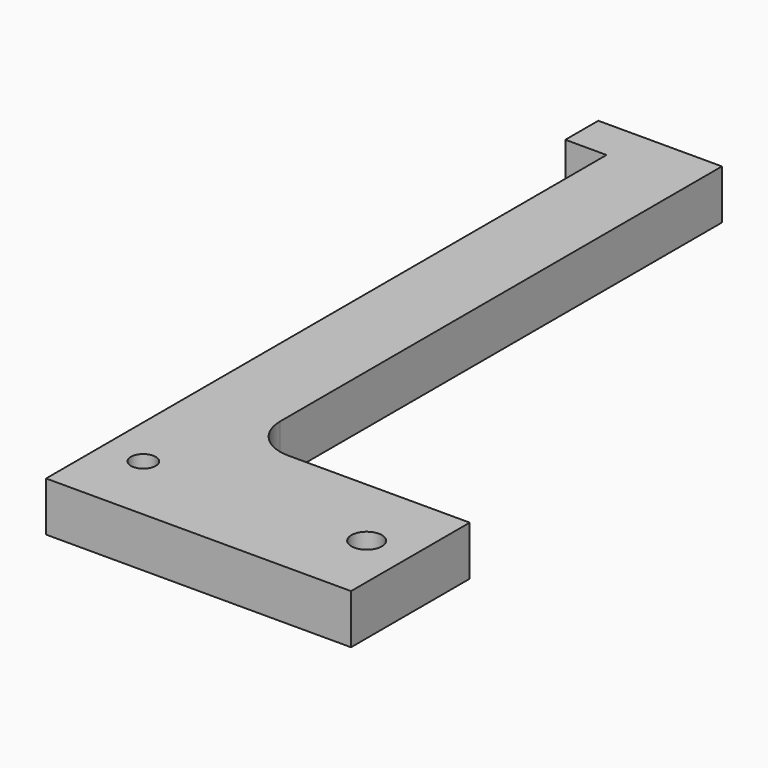
from build123d import *

# Parameters (mm, degrees)
F1_DEPTH = 6
F2_R     = 1.5
F2_R_2   = 1.85
F3_DEPTH = 25


with BuildPart() as f1:
    # F0 (on Top) → F1 (new body)
    with BuildSketch(Plane.XY):
        with BuildLine():
            Line((-18.5, -9), (18.5, -9))
            Line((18.5, -9), (18.5, 9))
            Line((18.5, 9), (1.5, 9))
            Line((1.5, 9), (-3.5, 9))
            ThreePointArc((-3.5, 9), (-7.035534, 10.464466), (-8.5, 14))
            Line((-8.5, 14), (-8.5, 81))
            Line((-8.5, 81), (-18.5, 81))
            Line((-18.5, 81), (-23.5, 81))
            Line((-23.5, 81), (-23.5, 76))
            Line((-23.5, 76), (-18.5, 76))
            Line((-18.5, 76), (-18.5, 9))
            Line((-18.5, 9), (-18.5, -9))
        make_face()
    extrude(amount=F1_DEPTH)

    # F2 (on face) → F3 (cut)
    with BuildSketch(Plane.XY.offset(6)):
        with Locations((-13.5, -0.5)):
            Circle(F2_R)
        with Locations((13.2, 0)):
            Circle(F2_R_2)
    extrude(amount=-F3_DEPTH, mode=Mode.SUBTRACT)


solid = f1.part
